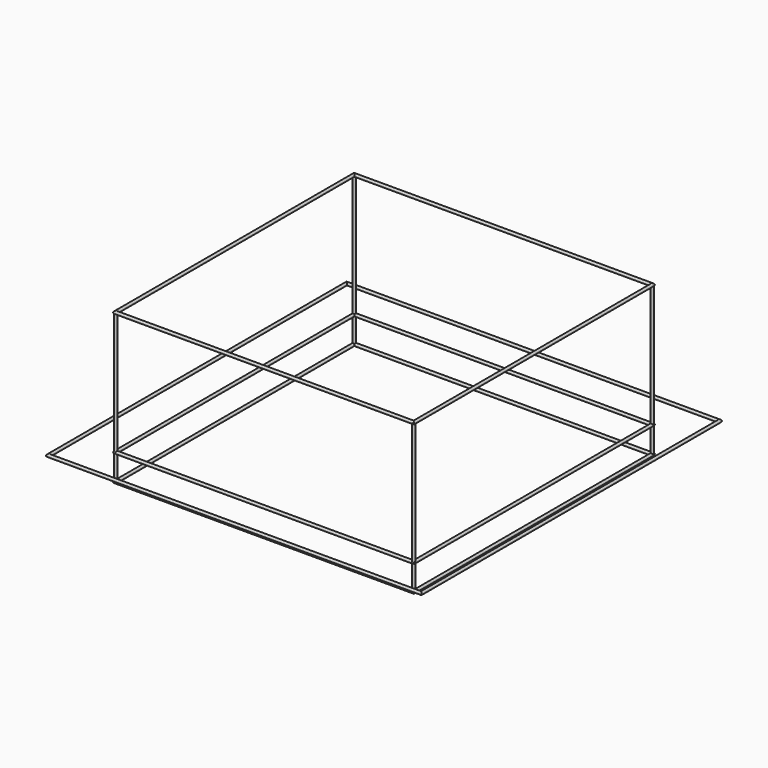
from build123d import *

# Parameters (mm, degrees)
F1_R     = 19.05
F4_R     = 19.05
F5_DEPTH = 2000
F10_R    = 19.05


with BuildPart() as f2:
    # F2: sweep along a path in F0
    with BuildLine(Plane.XY) as f2_path:
        Line((2000, 2000), (2000, -2000))
        Line((2000, -2000), (-2000, -2000))
        Line((-2000, -2000), (-2000, 2000))
        Line((-2000, 2000), (2000, 2000))
    # F1 (on Front) → F2 (sweep)
    with BuildSketch(Plane.XZ):
        with Locations((2000, 0)):
            Circle(F1_R)
    sweep(path=f2_path.line, transition=Transition.RIGHT)


with BuildPart() as f3_1:
    # F3: copy of F2
    add(f2.part.moved(Location((0, 0, 2000))))


with BuildPart() as f5:
    # F4 (on face) → F5 (new body)
    with BuildSketch(Plane.XY):
        with Locations((-1999.3360042572, -2000.8628368378)):
            Circle(F4_R)
    extrude(amount=F5_DEPTH)


with BuildPart() as f6_1:
    # F6: copy of F5
    add(f5.part.moved(Location((4000, 4000, 0))))


with BuildPart() as f5_1:
    # F7: moved
    add(f5.part.moved(Location((4000, 0, 0))))


with BuildPart() as f8_1:
    # F8: copy of F5
    add(f5_1.part.moved(Location((-4000, 0, 0))))


with BuildPart() as f8_2:
    # F8: copy of F6_1
    add(f6_1.part.moved(Location((-4000, 0, 0))))


with BuildPart() as f11:
    # F11: sweep along a path in F9
    with BuildLine(Plane.XY) as f11_path:
        Line((2500, 2500), (2500, -2500))
        Line((2500, -2500), (-2500, -2500))
        Line((-2500, -2500), (-2500, 2500))
        Line((-2500, 2500), (2500, 2500))
    # F10 (on Front) → F11 (sweep)
    with BuildSketch(Plane.XZ):
        with Locations((2500, 0)):
            Circle(F10_R)
    sweep(path=f11_path.line, transition=Transition.RIGHT)


with BuildPart() as f12_1:
    # F12: copy of F2
    add(f2.part.moved(Location((0, 0, 350))))


with BuildPart() as f11_1:
    # F13: moved
    add(f11.part.moved(Location((0, 0, 350))))


solid = Compound([f2.part, f3_1.part, f6_1.part, f5_1.part, f8_1.part, f8_2.part, f12_1.part, f11_1.part])
